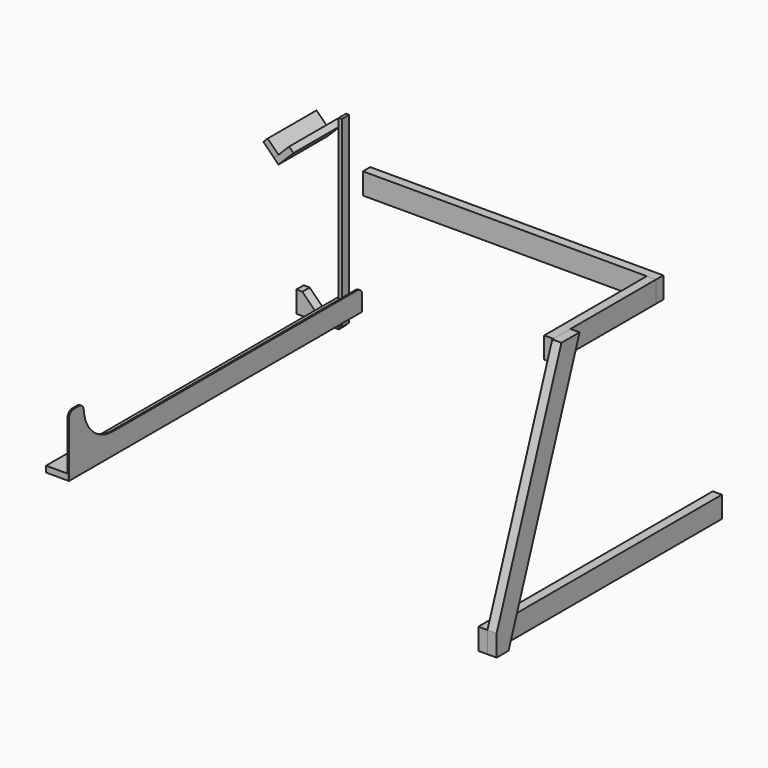
from build123d import *

# Parameters (mm, degrees)
F3_W      = 533.4
F3_H      = 88.9
F4_DEPTH  = 38.1
F5_W      = 38.1
F5_H      = 88.9
F6_DEPTH  = 1219.2
F8_DEPTH  = 38.1
F9_W      = 1219.2
F9_H      = 88.9
F10_DEPTH = 38.1
F11_W     = 88.9
F11_H     = 25.4
F12_DEPTH = 1524
F13_W     = 6.35
F13_H     = 254
F14_DEPTH = 1524
F16_DEPTH = 25.4
F17_R     = 25.4
F20_DEPTH = 254
F22_DEPTH = 254
F24_DEPTH = 38.1
F25_W     = 12.7
F25_H     = 762
F26_DEPTH = 38.1


with BuildPart() as f4:
    # F3 (on Right) → F4 (new body)
    with BuildSketch(Plane.YZ):
        with Locations((612.819310236, 1060.45)):
            Rectangle(F3_W, F3_H)
    extrude(amount=-F4_DEPTH)


with BuildPart() as f6:
    # F5 (on Right) → F6 (new body)
    with BuildSketch(Plane.YZ):
        with Locations((898.569310236, 1060.45)):
            Rectangle(F5_W, F5_H)
    extrude(amount=-F6_DEPTH)


with BuildPart() as f8:
    # F7 (on Right) → F8 (new body)
    with BuildSketch(Plane.YZ):
        Polygon((65.4872940599, 88.9), (434.9418395144, 1104.9), (340.3465829632, 1104.9), (3.219310236, 177.8), (3.219310236, 88.9), align=None)
    extrude(amount=F8_DEPTH)


with BuildPart() as f10:
    # F9 (on Right) → F10 (new body)
    with BuildSketch(Plane.YZ):
        with Locations((612.819310236, 133.35)):
            Rectangle(F9_W, F9_H)
    extrude(amount=-F10_DEPTH)


with BuildPart() as f12:
    # F11 (on Front) → F12 (new body)
    with BuildSketch(Plane.XZ):
        with Locations((-569.6693211794, 1188.0428296248)):
            Rectangle(F11_W, F11_H)
    extrude(amount=F12_DEPTH)


with BuildPart() as f14:
    # F13 (on Front) → F14 (new body)
    with BuildSketch(Plane.XZ):
        with Locations((-522.0443211794, 1302.3428296248)):
            Rectangle(F13_W, F13_H)
    extrude(amount=F14_DEPTH)

    # F15 (on face) → F16 (cut)
    with BuildSketch(Plane(origin=(-525.2193211794, 0, 0), x_dir=(0, -1, 0), z_dir=(-1, 0, 0))):
        with BuildLine():
            Line((1447.8, 1429.3428296248), (0, 1429.3428296248))
            Line((0, 1429.3428296248), (0, 1264.2428296248))
            Line((0, 1264.2428296248), (1295.4, 1264.2428296248))
            ThreePointArc((1295.4, 1264.2428296248), (1403.1630734528, 1308.879756172), (1447.8, 1416.6428296248))
            Line((1447.8, 1416.6428296248), (1447.8, 1429.3428296248))
        make_face()
    extrude(amount=-F16_DEPTH, mode=Mode.SUBTRACT)

    # F17
    f17_edges = [f14.edges().sort_by_distance(p)[0] for p in [
        (-522.044321, 0, 1264.24283),
        (-522.044321, -1447.8, 1429.34283),
        (-522.044321, -1524, 1429.34283),
    ]]
    fillet(f17_edges, radius=F17_R)


with BuildPart() as f20:
    # F19 (on Front) → F20 (new body)
    with BuildSketch(Plane.XZ):
        Polygon((-708.4172691947, 1851.7317339102), (-726.3777814369, 1833.7712216681), (-681.4765008315, 1788.8699410628), (-663.5159885894, 1806.8304533049), align=None)
    extrude(amount=F20_DEPTH)


with BuildPart() as f22:
    # F21 (on Front) → F22 (new body)
    with BuildSketch(Plane.XZ):
        Polygon((-681.4765008315, 1788.8699410628), (-663.5159885894, 1770.9094288206), (-600.6541957419, 1833.7712216681), (-618.614707984, 1851.7317339102), align=None)
    extrude(amount=F22_DEPTH)


with BuildPart() as f24:
    # F23 (on face) → F24 (new body)
    with BuildSketch(Plane.XZ):
        Polygon((-736.6227434128, 1193.8), (-762.0227434128, 1193.8), (-762.0227434128, 1104.9), (-585.4991577179, 1104.9), (-585.4991577179, 1193.8), (-610.8991577179, 1193.8), (-673.7609505653, 1130.9382071525), align=None)
    extrude(amount=F24_DEPTH)


with BuildPart() as f26:
    # F25 (on face) → F26 (new body)
    with BuildSketch(Plane.XZ):
        with Locations((-579.1491577179, 1498.6)):
            Rectangle(F25_W, F25_H)
    extrude(amount=F26_DEPTH)


solid = Compound([f4.part, f6.part, f8.part, f10.part, f12.part, f14.part, f20.part, f22.part, f24.part, f26.part])
